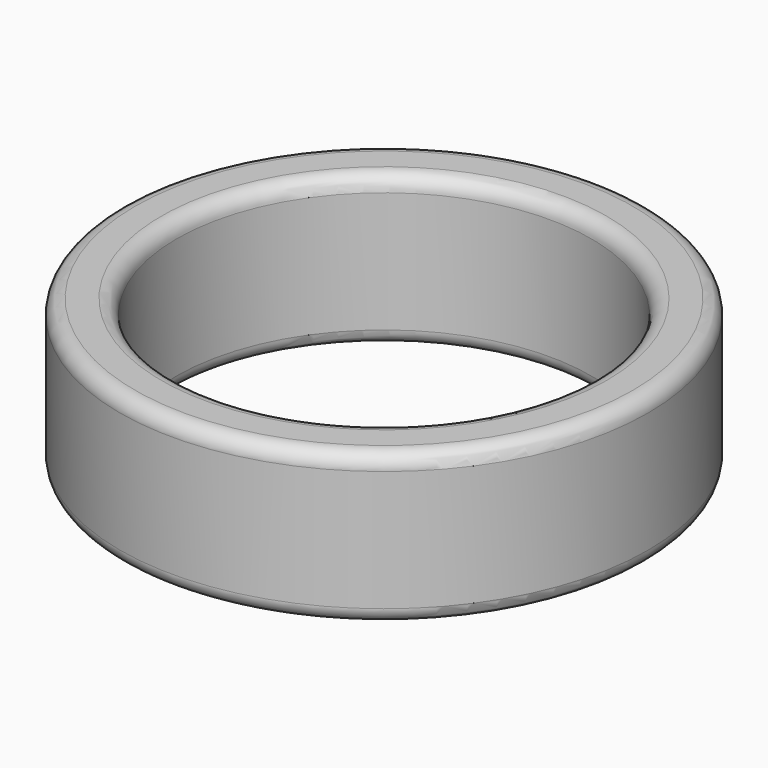
from build123d import *

# Parameters (mm, degrees)
F0_R     = 35
F1_DEPTH = 20
F2_R     = 27.5
F3_DEPTH = 25
F4_R     = 2
F5_R     = 2


with BuildPart() as f1:
    # F0 (on Top) → F1 (new body)
    with BuildSketch(Plane.XY):
        Circle(F0_R)
    extrude(amount=F1_DEPTH)

    # F2 (on face) → F3 (cut)
    with BuildSketch(Plane.XY.offset(20)):
        Circle(F2_R)
    extrude(amount=-F3_DEPTH, mode=Mode.SUBTRACT)

    # F4
    f4_edges = [f1.edges().sort_by_distance(p)[0] for p in [
        (-27.5, 0, 20),
        (-27.5, 0, 0),
    ]]
    fillet(f4_edges, radius=F4_R)

    # F5
    f5_edges = [f1.edges().sort_by_distance(p)[0] for p in [
        (-35, 0, 20),
        (-35, 0, 0),
    ]]
    fillet(f5_edges, radius=F5_R)


solid = f1.part
